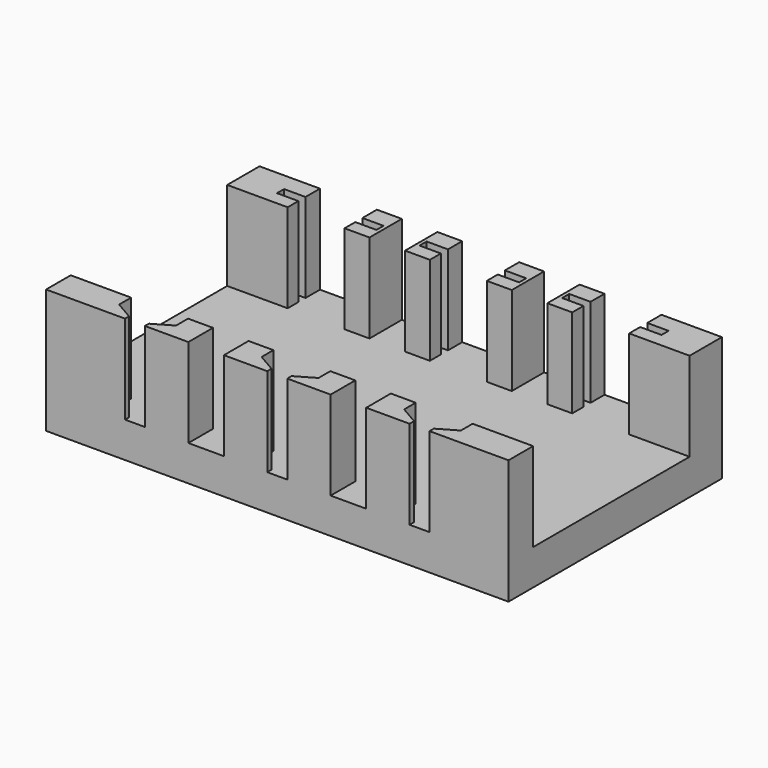
from build123d import *

# Parameters (mm, degrees)
F0_W      = 130
F0_H      = 50
F1_DEPTH  = 150
F2_W      = 75
F2_H      = 25.0761986731
F3_DEPTH  = 130.001
F6_DEPTH  = 25
F8_DEPTH  = 25
F10_DEPTH = 25
F11_W     = 150
F11_H     = 15
F12_DEPTH = 161
F13_W     = 20
F13_H     = 75
F13_W_2   = 29.982657928
F13_W_3   = 30.0133985095
F13_W_4   = 19.9825553596
F14_DEPTH = 25
F15_W     = 75
F15_H     = 9.9238013269
F16_DEPTH = 100
F17_R     = 2
F18_DEPTH = 10
F19_W     = 55
F19_H     = 25
F20_DEPTH = 140
F4_W      = 10
F4_H      = 75
F21_DEPTH = 25


with BuildPart() as f1:
    # F0 (on Front) → F1 (new body)
    with BuildSketch(Plane.XZ):
        with Locations((0.7955543697, 0.0761986731)):
            Rectangle(F0_W, F0_H)
    extrude(amount=F1_DEPTH)

    # F2 (on face) → F3 (cut, through all)
    with BuildSketch(Plane.YZ.offset(65.7955543697)):
        with Locations((-37.5, 12.5380993366)):
            Rectangle(F2_W, F2_H)
    extrude(amount=-F3_DEPTH, mode=Mode.SUBTRACT)

    # F5 (on face) → F6 (cut)
    with BuildSketch(Plane.XY.offset(25.0761986731)):
        Polygon((-31.2077699304, -75), (-47.2077699304, -75), (-47.2077699304, -80.0817286968), (-53.221039474, -80.0817286968), (-53.221039474, -82.5817286968), (-47.2077699304, -82.5817286968), (-47.2077699304, -145.5817286968), (-42.0114186667, -148.5818434977), (-42.0114186667, -150), (-36.4380876982, -150), (-36.4078128177, -148.5839748576), (-31.2077699304, -145.5817286968), (-31.2077699304, -82.5817286968), (-25.2643544227, -82.5817286968), (-25.2643544227, -80.0817286968), (-31.2077699304, -80.0817286968), align=None)
    extrude(amount=-F6_DEPTH, mode=Mode.SUBTRACT)

    # F7 (on face) → F8 (cut)
    with BuildSketch(Plane.XY.offset(25.0761986731)):
        Polygon((48.7916108072, -73.9334896207), (32.7916108072, -73.8659650087), (32.7916108072, -79.9098435044), (26.7916108072, -79.9098435044), (26.7916108072, -82.4098435044), (32.7916108072, -82.4098435044), (32.7916108072, -145.4098435044), (37.9877632299, -148.4098435044), (37.9877632299, -152.647121688), (43.5954583845, -152.647121688), (43.5954583845, -148.4773681164), (48.7916108072, -145.4773681164), (48.7916108072, -82.4773681164), (54.7916108072, -82.4773681164), (54.7916108072, -79.9773681164), (48.7916108072, -79.9773681164), align=None)
    extrude(amount=-F8_DEPTH, mode=Mode.SUBTRACT)

    # F9 (on face) → F10 (cut)
    with BuildSketch(Plane.XY.offset(25.0761986731)):
        Polygon((8.7782122977, -73.7298429012), (-7.2217877023, -73.7298429012), (-7.2217877023, -79.9959796667), (-13.2217877023, -79.9959796667), (-13.2217877023, -82.4959796667), (-7.2217877023, -82.4959796667), (-7.2217877023, -145.4959796667), (-2.0256352796, -148.4959796667), (-2.0256352796, -153.1414538622), (3.6333000753, -153.1414538622), (3.582059875, -148.4959796667), (8.7782122977, -145.4959796667), (8.7782122977, -82.4959796667), (14.7782122977, -82.4959796667), (14.7782122977, -79.9959796667), (8.7782122977, -79.9959796667), align=None)
    extrude(amount=-F10_DEPTH, mode=Mode.SUBTRACT)

    # F11 (on face) → F12 (cut)
    with BuildSketch(Plane.YZ.offset(65.7955543697)):
        with Locations((-75, -17.4238013269)):
            Rectangle(F11_W, F11_H)
    extrude(amount=-F12_DEPTH, mode=Mode.SUBTRACT)

    # F13 (on face) → F14 (cut)
    with BuildSketch(Plane.XY):
        with Locations((-54.2044456303, -37.5)):
            Rectangle(F13_W, F13_H)
        with Locations((-19.2131166663, -37.5)):
            Rectangle(F13_W_2, F13_H)
        with Locations((20.7849115524, -37.5)):
            Rectangle(F13_W_3, F13_H)
        with Locations((55.8042766899, -37.5)):
            Rectangle(F13_W_4, F13_H)
    extrude(amount=-F14_DEPTH, mode=Mode.SUBTRACT)

    # F15 (on face) → F16 (cut)
    with BuildSketch(Plane.YZ.offset(45.8129990101)):
        with Locations((-37.5, -4.9619006634)):
            Rectangle(F15_W, F15_H)
    extrude(amount=-F16_DEPTH, mode=Mode.SUBTRACT)

    # F17 (on face) → F18 (cut)
    with BuildSketch(Plane(origin=(0, -75, 0), x_dir=(-1, 0, 0), z_dir=(0, 1, 0))):
        with Locations((-40.7916108072, -4.9238013269)):
            Circle(F17_R)
        with Locations((-0.7782122977, -4.9238013269)):
            Circle(F17_R)
        with Locations((39.2077699304, -4.9238013269)):
            Circle(F17_R)
    extrude(amount=-F18_DEPTH, mode=Mode.SUBTRACT)

    # F19 (on face) → F20 (cut)
    with BuildSketch(Plane.YZ.offset(65.7955543697)):
        with Locations((-113.85, 12.5761986731)):
            Rectangle(F19_W, F19_H)
    extrude(amount=-F20_DEPTH, mode=Mode.SUBTRACT)

    # F4 (on face) → F21 (cut)
    with BuildSketch(Plane.XY.offset(25.0761986731)):
        with Locations((-19.2044456303, -112.5)):
            Rectangle(F4_W, F4_H)
        with Locations((20.7955543697, -112.5)):
            Rectangle(F4_W, F4_H)
    extrude(amount=-F21_DEPTH, mode=Mode.SUBTRACT)


solid = f1.part
